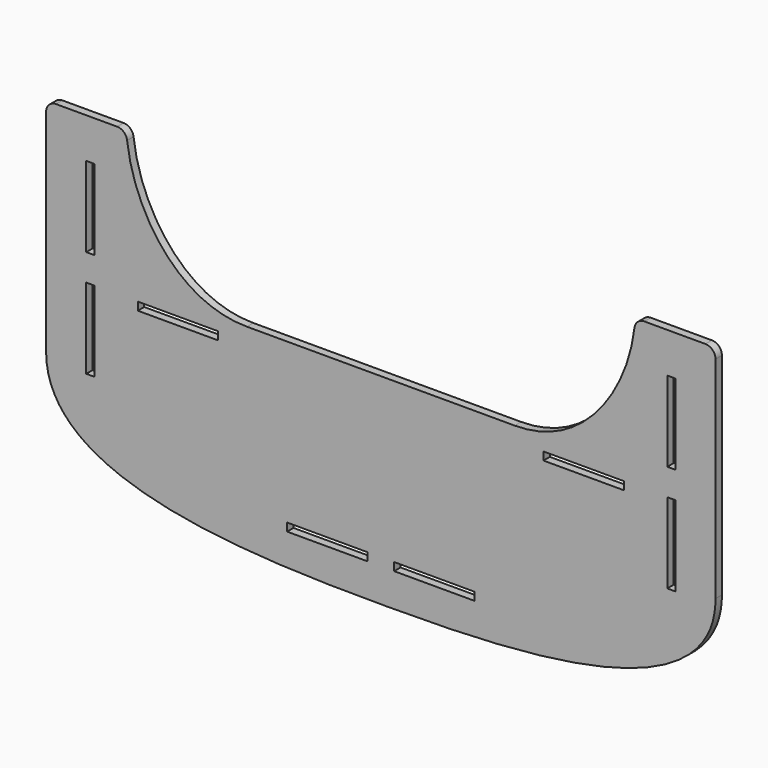
from build123d import *

# Parameters (mm, degrees)
F0_W     = 120
F0_H     = 12
F0_W_2   = 12
F0_H_2   = 120
F1_DEPTH = 12


with BuildPart() as f1:
    # F0 (on Front) → F1 (new body)
    with BuildSketch(Plane.XZ):
        with BuildLine():
            ThreePointArc((-378.929395, 486.677106), (-383.83926, 496.183841), (-393.835344, 500))
            Line((-393.835344, 500), (-485, 500))
            ThreePointArc((-485, 500), (-495.606602, 495.606602), (-500, 485))
            Line((-500, 485), (-500, 170))
            add(Edge.make_bspline(
                [(-500, 170), (-500, 5.885842), (-190.944657, 0), (0, 0)],
                knots=[0, 0, 0, 0, 528.109837, 528.109837, 528.109837, 528.109837], degree=3))
            add(Edge.make_bspline(
                [(500, 170), (500, 5.885842), (190.944657, 0), (0, 0)],
                knots=[0, 0, 0, 0, 528.109837, 528.109837, 528.109837, 528.109837], degree=3))
            Line((500, 170), (500, 485))
            ThreePointArc((500, 485), (495.606602, 495.606602), (485, 500))
            Line((485, 500), (393.835344, 500))
            ThreePointArc((393.835344, 500), (383.83926, 496.183841), (378.929395, 486.677106))
            add(Edge.make_bspline(
                [(378.929395, 486.677106), (369.175225, 399.983037), (304.53169, 300), (200, 300)],
                knots=[13.22611, 13.22611, 13.22611, 13.22611, 269.072481, 269.072481, 269.072481, 269.072481], degree=3))
            Line((200, 300), (0, 300))
            Line((0, 300), (-200, 300))
            add(Edge.make_bspline(
                [(-378.929395, 486.677106), (-369.175225, 399.983037), (-304.53169, 300), (-200, 300)],
                knots=[13.22611, 13.22611, 13.22611, 13.22611, 269.072481, 269.072481, 269.072481, 269.072481], degree=3))
        make_face()
        with Locations((-80, 56)):
            Rectangle(F0_W, F0_H, mode=Mode.SUBTRACT)
        with Locations((-434, 220)):
            Rectangle(F0_W_2, F0_H_2, mode=Mode.SUBTRACT)
        with Locations((80, 56)):
            Rectangle(F0_W, F0_H, mode=Mode.SUBTRACT)
        with Locations((434, 220)):
            Rectangle(F0_W_2, F0_H_2, mode=Mode.SUBTRACT)
        with Locations((-303, 274)):
            Rectangle(F0_W, F0_H, mode=Mode.SUBTRACT)
        with Locations((-434, 380)):
            Rectangle(F0_W_2, F0_H_2, mode=Mode.SUBTRACT)
        with Locations((303, 274)):
            Rectangle(F0_W, F0_H, mode=Mode.SUBTRACT)
        with Locations((434, 380)):
            Rectangle(F0_W_2, F0_H_2, mode=Mode.SUBTRACT)
    extrude(amount=F1_DEPTH)


solid = f1.part
